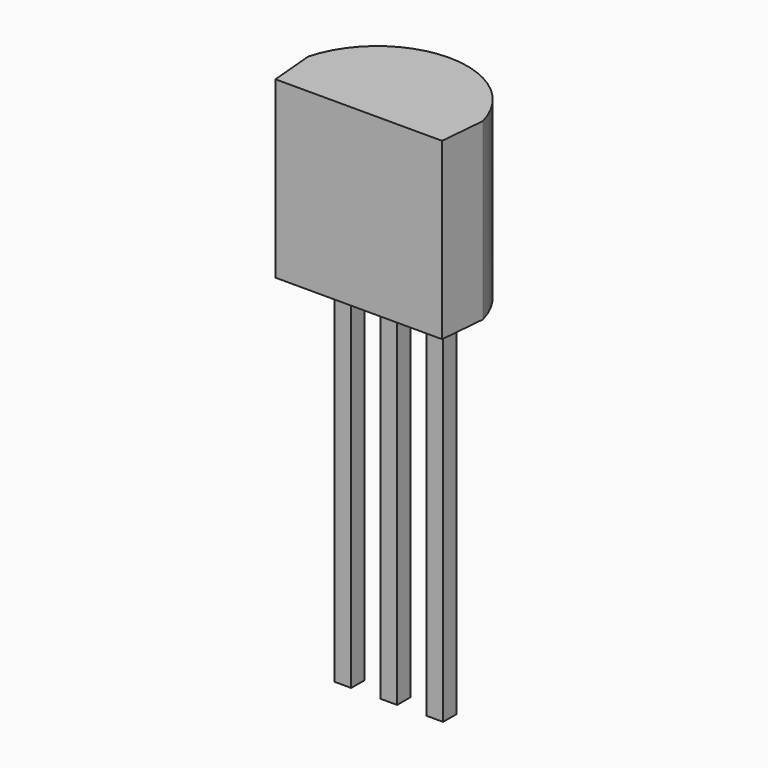
from build123d import *

# Parameters (mm, degrees)
F1_DEPTH = 4.83
F2_W     = 0.46
F2_H     = 0.46
F3_DEPTH = 10


with BuildPart() as f1:
    # F0 (on Top) → F1 (new body)
    with BuildSketch(Plane.XY):
        with BuildLine():
            ThreePointArc((2.415, 0.635), (0, 2.497088), (-2.415, 0.635))
            Line((-2.415, 0.635), (-2.303889, -0.635))
            Line((-2.303889, -0.635), (2.303889, -0.635))
            Line((2.303889, -0.635), (2.415, 0.635))
        make_face()
    extrude(amount=F1_DEPTH)

    # F2 (on face) → F3 (join)
    with BuildSketch(Plane(origin=(0, 0, 0), x_dir=(1, 0, 0), z_dir=(0, 0, -1))):
        with Locations((0, -0.635)):
            Rectangle(F2_W, F2_H)
        with Locations((1.27, -0.635)):
            Rectangle(F2_W, F2_H)
        with Locations((-1.27, -0.635)):
            Rectangle(F2_W, F2_H)
    extrude(amount=F3_DEPTH)


solid = f1.part
